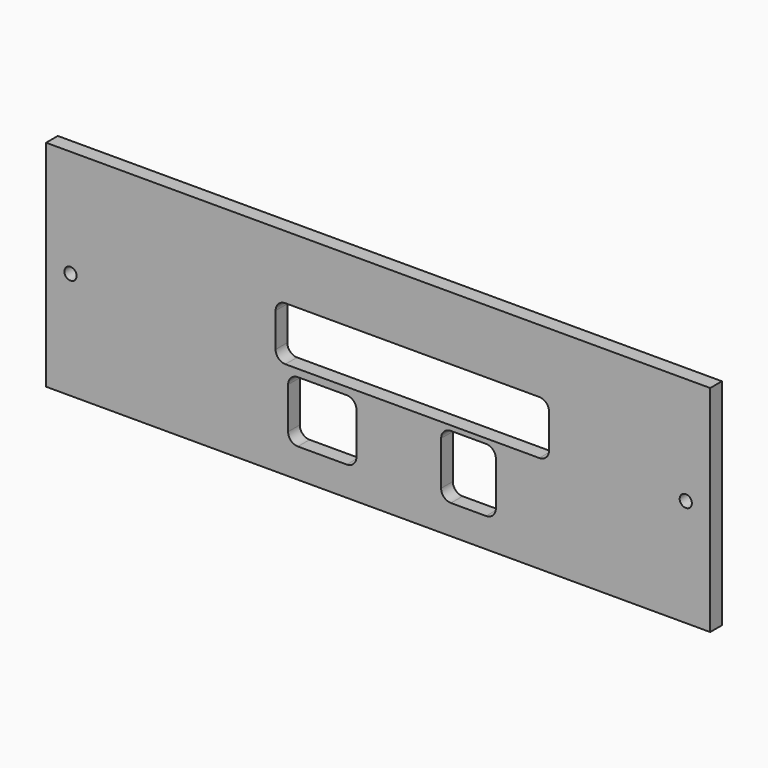
from build123d import *

# Parameters (mm, degrees)
SKETCH_W        = 136
SKETCH_H        = 44
PAD_DEPTH       = 3
SKETCH001_W     = 14
SKETCH001_H     = 12.5
SKETCH001_W_2   = 56
SKETCH001_H_2   = 11
SKETCH001_W_3   = 11.2
SKETCH001_H_3   = 13
POCKET_DEPTH    = 3.001
SKETCH002_R     = 1.25
POCKET001_DEPTH = 3.001
FILLET_R        = 2


with BuildPart() as part:
    # Sketch → Pad (new body)
    with BuildSketch(Plane.XZ):
        with Locations((68, 22)):
            Rectangle(SKETCH_W, SKETCH_H)
    extrude(amount=PAD_DEPTH)

    # Sketch001 (on Face6 of Pad) → Pocket (cut, through all)
    with BuildSketch(Plane.XZ.offset(3)):
        with Locations((56.56, 12.25)):
            Rectangle(SKETCH001_W, SKETCH001_H)
        with Locations((75, 25.5)):
            Rectangle(SKETCH001_W_2, SKETCH001_H_2)
        with Locations((86.5, 12.5)):
            Rectangle(SKETCH001_W_3, SKETCH001_H_3)
    extrude(amount=-POCKET_DEPTH, mode=Mode.SUBTRACT)

    # Sketch002 (on Face5 of Pocket) → Pocket001 (cut, through all)
    with BuildSketch(Plane.XZ.offset(3)):
        with Locations((5, 22)):
            Circle(SKETCH002_R)
        with Locations((131, 22)):
            Circle(SKETCH002_R)
    extrude(amount=-POCKET001_DEPTH, mode=Mode.SUBTRACT)

    # Fillet
    fillet_edges = [part.edges().sort_by_distance(p)[0] for p in [
        (47, -1.5, 31),
        (47, -1.5, 20),
        (103, -1.5, 20),
        (103, -1.5, 31),
        (92.1, -1.5, 19),
        (80.9, -1.5, 19),
        (80.9, -1.5, 6),
        (92.1, -1.5, 6),
        (63.56, -1.5, 6),
        (49.56, -1.5, 6),
        (49.56, -1.5, 18.5),
        (63.56, -1.5, 18.5),
    ]]
    fillet(fillet_edges, radius=FILLET_R)


solid = part.part
